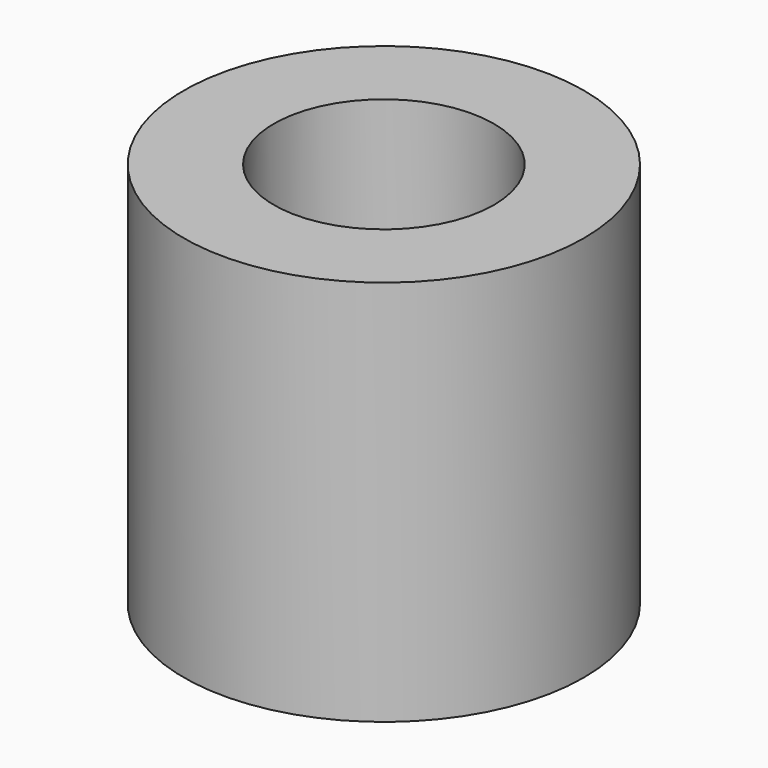
from build123d import *

# Parameters (mm, degrees)
SKETCH006_R     = 3
PAD001_DEPTH    = 5.8
SKETCH007_W     = 2.1
SKETCH007_H     = 2.1
POCKET001_DEPTH = 2.2
SKETCH008_R     = 1.65
POCKET002_DEPTH = 3.3


with BuildPart() as part:
    # Sketch006 → Pad001 (new body)
    with BuildSketch(Plane.XY):
        Circle(SKETCH006_R)
    extrude(amount=PAD001_DEPTH)

    # Sketch007 → Pocket001 (cut)
    with BuildSketch(Plane.XY):
        Rectangle(SKETCH007_W, SKETCH007_H)
    extrude(amount=POCKET001_DEPTH, mode=Mode.SUBTRACT)

    # Sketch008 (on Face3 of Pocket001) → Pocket002 (cut)
    with BuildSketch(Plane.XY.offset(5.8)):
        Circle(SKETCH008_R)
    extrude(amount=-POCKET002_DEPTH, mode=Mode.SUBTRACT)


solid = part.part
